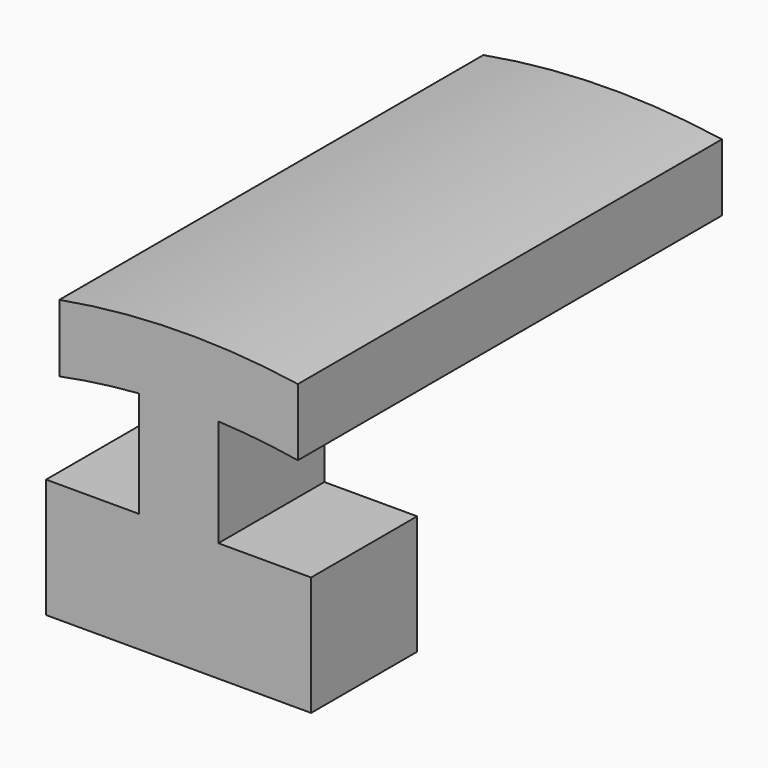
from build123d import *

# Parameters (mm, degrees)
F1_DEPTH = 20
F2_DEPTH = 5


with BuildPart() as f1:
    # F0 (on Front) → F1 (new body)
    with BuildSketch(Plane.XZ):
        with BuildLine():
            ThreePointArc((-33.554578, 24.518312), (-32.0608, 24.769076), (-30.554578, 24.928918))
            ThreePointArc((-30.554578, 24.928918), (-29.054829, 24.997049), (-27.553695, 24.975034))
            ThreePointArc((-27.553695, 24.975034), (-26.049364, 24.862194), (-24.554578, 24.658825))
            Line((-24.554578, 24.658825), (-24.554578, 27.190212))
            ThreePointArc((-24.554578, 27.190212), (-29.059824, 27.497247), (-33.554578, 27.062846))
            Line((-33.554578, 27.062846), (-33.554578, 24.518312))
        make_face()
    extrude(amount=-F1_DEPTH)

    # F0 (on Front) → F2 (join)
    with BuildSketch(Plane.XZ):
        with BuildLine():
            Line((-30.554578, 24.928918), (-30.554578, 20.928918))
            Line((-30.554578, 20.928918), (-34.054578, 20.928918))
            Line((-34.054578, 20.928918), (-34.054578, 16.428918))
            Line((-34.054578, 16.428918), (-24.054578, 16.428918))
            Line((-24.054578, 16.428918), (-24.054578, 20.928918))
            Line((-24.054578, 20.928918), (-27.554578, 20.928918))
            Line((-27.554578, 20.928918), (-27.554578, 24.928918))
            Line((-27.554578, 24.928918), (-27.553695, 24.975034))
            ThreePointArc((-27.553695, 24.975034), (-29.054829, 24.997049), (-30.554578, 24.928918))
        make_face()
    extrude(amount=-F2_DEPTH)


solid = f1.part
